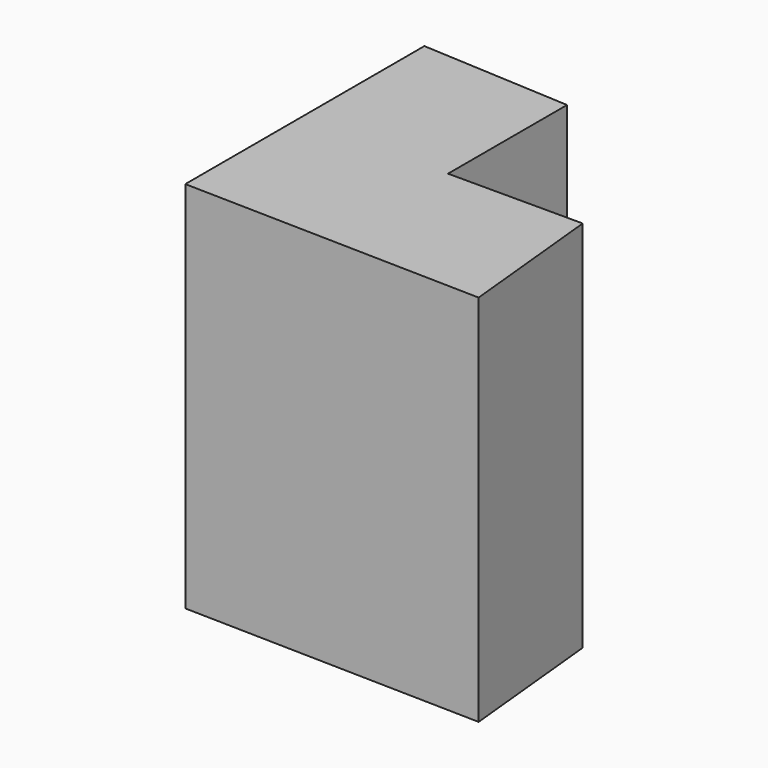
from build123d import *

# Parameters (mm, degrees)
F1_DEPTH = 25


with BuildPart() as f1:
    # F0 (on Top) → F1 (new body)
    with BuildSketch(Plane.XY):
        Polygon((-32.0135473862, -18.9185493521), (-41.9985689223, -18.371425122), (-41.9985689223, -38.371425122), (-22.0037322274, -38.8258539341), (-22.9987681159, -28.8754819018), (-32.0135473862, -28.8754819018), align=None)
    extrude(amount=F1_DEPTH)


with BuildPart() as f1b:
    # F0 (on Top) → F1, piece 2 (new body)
    with BuildSketch(Plane.XY):
        Polygon((23.4582594037, -14.5173627138), (13.4582594037, -14.5173627138), (13.4582594037, -34.5173627138), (33.4582594037, -34.5173627138), (33.4582594037, -24.5173627138), (23.4582594037, -24.5173627138), align=None)
    extrude(amount=F1_DEPTH)


solid = f1.part
